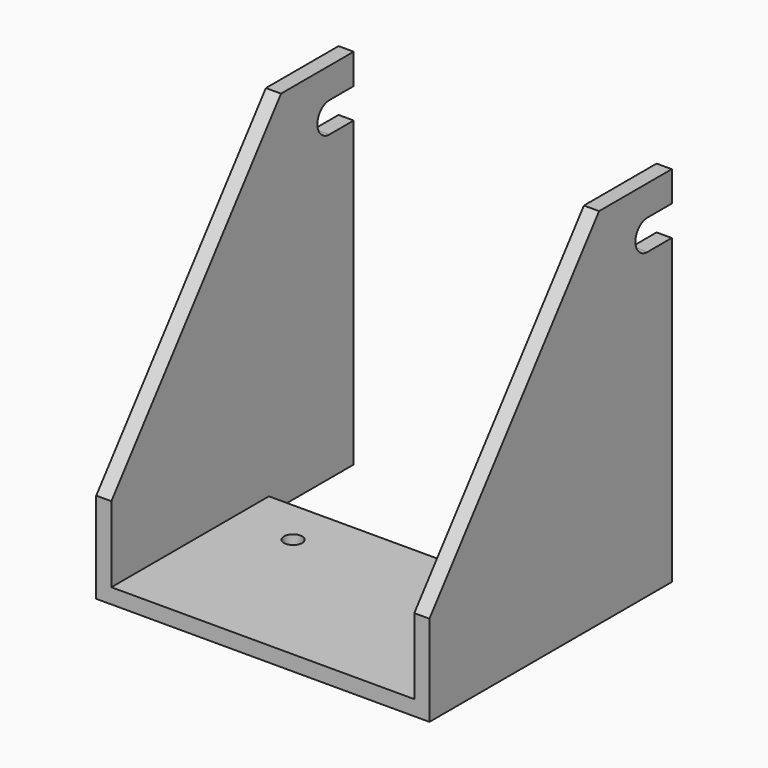
from build123d import *

# Parameters (mm, degrees)
F0_R     = 3
F1_DEPTH = 5
F3_DEPTH = 115
F5_DEPTH = 25
F7_DEPTH = 25


with BuildPart() as f1:
    # F0 (on Top) → F1 (new body)
    with BuildSketch(Plane.XY):
        Polygon((-74.838845, -4.279941), (-74.838845, -104.279941), (35.161155, -104.279941), (35.161155, -4.279941), (30.161155, -4.279941), (30.161155, -39.279941), (-69.838845, -39.279941), (-69.838845, -4.279941), align=None)
        with Locations((-49.838845, -54.279941)):
            Circle(F0_R, mode=Mode.SUBTRACT)
        with Locations((10.161155, -54.279941)):
            Circle(F0_R, mode=Mode.SUBTRACT)
    extrude(amount=F1_DEPTH)

    # F2 (on face) → F3 (join)
    with BuildSketch(Plane.XY.offset(5)):
        Polygon((-74.838845, -104.279941), (-69.838845, -104.279941), (-69.838845, -39.279941), (-69.838845, -4.279941), (-74.838845, -4.279941), align=None)
        Polygon((30.161155, -39.279941), (30.161155, -104.279941), (35.161155, -104.279941), (35.161155, -4.279941), (30.161155, -4.279941), align=None)
    extrude(amount=F3_DEPTH)

    # F4 (on face) → F5 (cut)
    with BuildSketch(Plane.YZ.offset(35.161155)):
        Polygon((-104.279941, 30), (-34.279941, 120), (-104.279941, 120), align=None)
        with BuildLine():
            Line((-4.279941, 100), (-4.279941, 109.995835))
            Line((-4.279941, 109.995835), (-14.075894, 109.995835))
            Line((-14.075894, 109.995835), (-14.483987, 109.995835))
            ThreePointArc((-14.483987, 109.995835), (-19.2789, 104.897956), (-14.279941, 100))
            Line((-14.279941, 100), (-4.279941, 100))
        make_face()
    extrude(amount=-F5_DEPTH, mode=Mode.SUBTRACT)

    # F6 (on face) → F7 (cut)
    with BuildSketch(Plane(origin=(-74.838845, 0, 0), x_dir=(0, -1, 0), z_dir=(-1, 0, 0))):
        with BuildLine():
            Line((13.948806, 109.989023), (4.279941, 109.989023))
            Line((4.279941, 109.989023), (4.279941, 100))
            Line((4.279941, 100), (14.279941, 100))
            ThreePointArc((14.279941, 100), (19.277196, 104.834341), (14.611076, 109.989023))
            Line((14.611076, 109.989023), (13.948806, 109.989023))
        make_face()
        Polygon((104.279941, 120), (34.279941, 120), (104.279941, 30), align=None)
    extrude(amount=-F7_DEPTH, mode=Mode.SUBTRACT)


solid = f1.part
